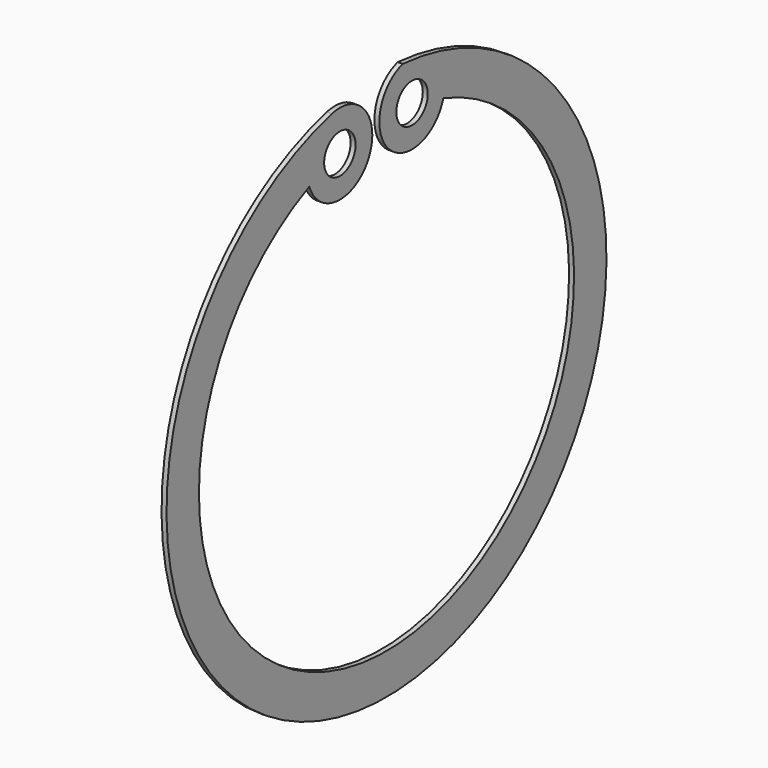
from build123d import *

# Parameters (mm, degrees)
F0_R     = 0.75
F1_DEPTH = 0.19


with BuildPart() as f1:
    # F0 (on Right) → F1 (new body)
    with BuildSketch(Plane.YZ):
        with BuildLine():
            ThreePointArc((-31.323275, 49.133315), (-28.498307, 48.916389), (-30.2477, 51.145094))
            ThreePointArc((-30.2477, 51.145094), (-26.708515, 30.515758), (-26.863668, 51.44591))
            ThreePointArc((-26.863668, 51.44591), (-27.521775, 48.848868), (-24.924406, 49.505683))
            ThreePointArc((-24.924406, 49.505683), (-27.118138, 32.03723), (-31.323275, 49.133315))
        make_face()
        with Locations((-29.86309, 49.646055)):
            Circle(F0_R, mode=Mode.SUBTRACT)
        with Locations((-26.418818, 49.951277)):
            Circle(F0_R, mode=Mode.SUBTRACT)
    extrude(amount=F1_DEPTH)


solid = f1.part
